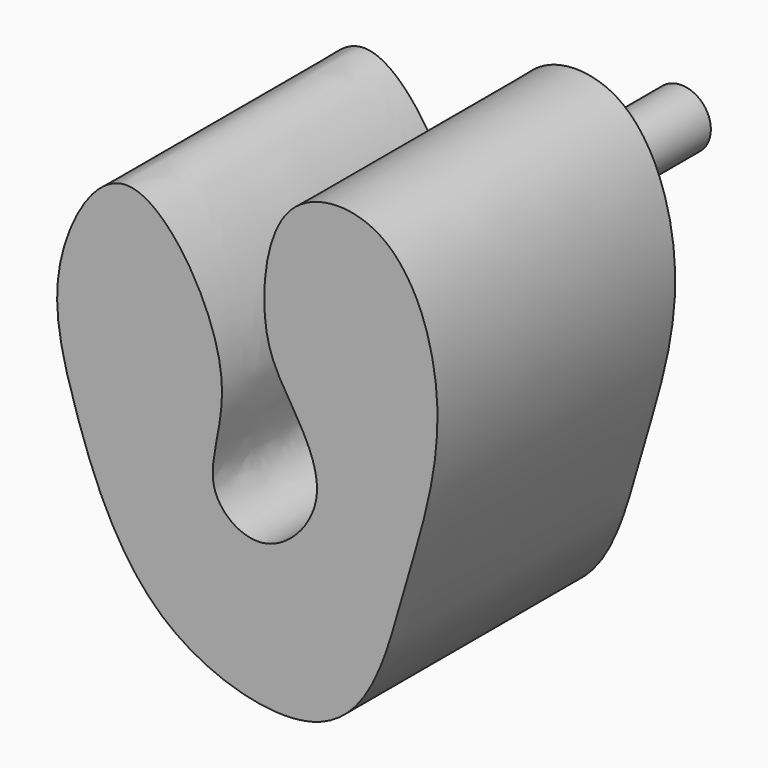
from build123d import *

# Parameters (mm, degrees)
F1_DEPTH = 25.4
F2_R     = 2.5198817124
F3_DEPTH = 7.366


with BuildPart() as f1:
    # F0 (on Front) → F1 (new body)
    with BuildSketch(Plane.XZ):
        with BuildLine():
            add(Edge.make_bspline(
                [(0, 0), (-3.9205650553, 3.4212760216), (-7.800939938, 13.4738499055), (-10.1792356157, 23.5724718455), (-2.7843434054, 36.3618775316), (7.63418248, 19.6927218709), (2.5718630334, 11.1242836546), (8.8448773055, 6.5790779527), (15.1145349384, 13.2431856965), (10.5277565908, 20.2059436708), (8.2121924719, 24.462080846), (9.2507363886, 35.8855413449), (20.4234239159, 36.4738359343), (25.1968454539, 22.7572715649), (20.741414882, 9.452962263), (18.3682609525, -0.2187629278), (12.307591226, -5.5773247451), (3.5643201761, -3.1103993888), (0, 0)],
                knots=[0, 0, 0, 0, 0.0797706351, 0.1469824537, 0.2082666489, 0.2839999934, 0.3449523253, 0.3899620224, 0.4427093438, 0.4973525824, 0.5439393372, 0.6065899264, 0.6627550725, 0.7344135951, 0.811553619, 0.8747897218, 0.9274777793, 1, 1, 1, 1], degree=3))
        make_face()
    extrude(amount=F1_DEPTH)

    # F2 (on Front) → F3 (join)
    with BuildSketch(Plane.XZ):
        with Locations((18.1832816452, 30.0393793732)):
            Circle(F2_R)
    extrude(amount=-F3_DEPTH)


solid = f1.part
